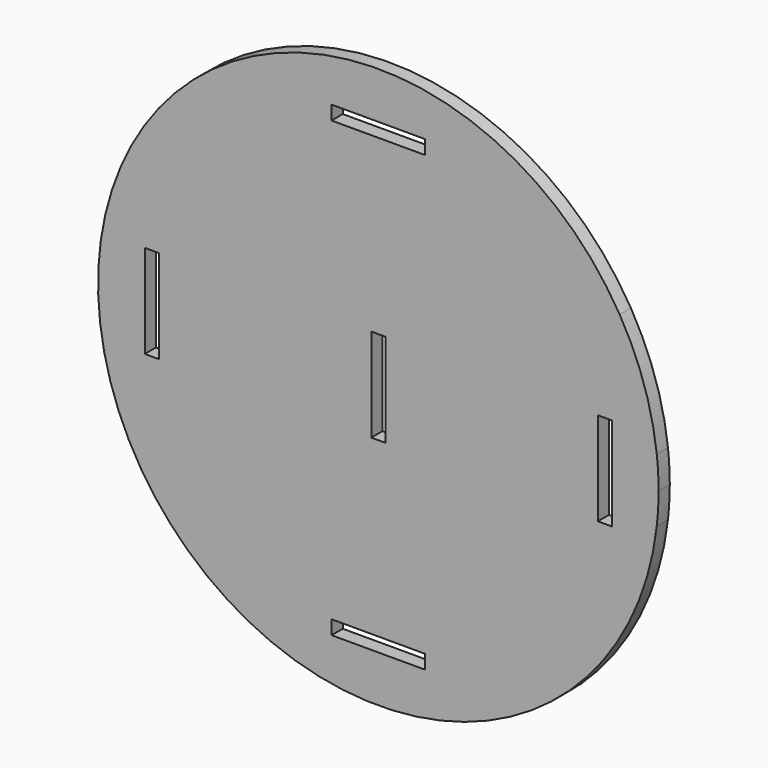
from build123d import *

# Parameters (mm, degrees)
F0_W     = 20
F0_H     = 3
F0_W_2   = 3
F0_H_2   = 20
F1_DEPTH = 3
F2_DEPTH = 3


with BuildPart() as f1:
    # F0 (on Front) → F1 (new body)
    with BuildSketch(Plane.XZ):
        with BuildLine():
            ThreePointArc((59.615292, -6.783583), (59.903746, -3.397242), (60, 0))
            ThreePointArc((60, 0), (59.903746, 3.397242), (59.615292, 6.783583))
            Line((59.615292, 6.783583), (59.615292, -6.783583))
        make_face()
        with BuildLine():
            Line((59.615292, -6.783583), (59.615292, 6.783583))
            ThreePointArc((59.615292, 6.783583), (56.890443, 19.065086), (51.664625, 30.508466))
            ThreePointArc((51.664625, 30.508466), (-58.681166, -12.510827), (59.615292, -6.783583))
        make_face()
        with Locations((0, -48.5)):
            Rectangle(F0_W, F0_H, mode=Mode.SUBTRACT)
        with Locations((-48.5, 0)):
            Rectangle(F0_W_2, F0_H_2, mode=Mode.SUBTRACT)
        Rectangle(F0_W_2, F0_H_2, mode=Mode.SUBTRACT)
        with Locations((48.5, 0)):
            Rectangle(F0_W_2, F0_H_2, mode=Mode.SUBTRACT)
        with Locations((0, 48.5)):
            Rectangle(F0_W, F0_H, mode=Mode.SUBTRACT)
    extrude(amount=F1_DEPTH)

    # F0 (on Front) → F2 (join)
    with BuildSketch(Plane.XZ):
        with BuildLine():
            ThreePointArc((59.615292, -6.783583), (59.903746, -3.397242), (60, 0))
            ThreePointArc((60, 0), (59.903746, 3.397242), (59.615292, 6.783583))
            Line((59.615292, 6.783583), (59.615292, -6.783583))
        make_face()
        with BuildLine():
            Line((59.615292, -6.783583), (59.615292, 6.783583))
            ThreePointArc((59.615292, 6.783583), (56.890443, 19.065086), (51.664625, 30.508466))
            ThreePointArc((51.664625, 30.508466), (-58.681166, -12.510827), (59.615292, -6.783583))
        make_face()
        with Locations((0, -48.5)):
            Rectangle(F0_W, F0_H, mode=Mode.SUBTRACT)
        with Locations((-48.5, 0)):
            Rectangle(F0_W_2, F0_H_2, mode=Mode.SUBTRACT)
        Rectangle(F0_W_2, F0_H_2, mode=Mode.SUBTRACT)
        with Locations((48.5, 0)):
            Rectangle(F0_W_2, F0_H_2, mode=Mode.SUBTRACT)
        with Locations((0, 48.5)):
            Rectangle(F0_W, F0_H, mode=Mode.SUBTRACT)
    extrude(amount=F2_DEPTH)


solid = f1.part
